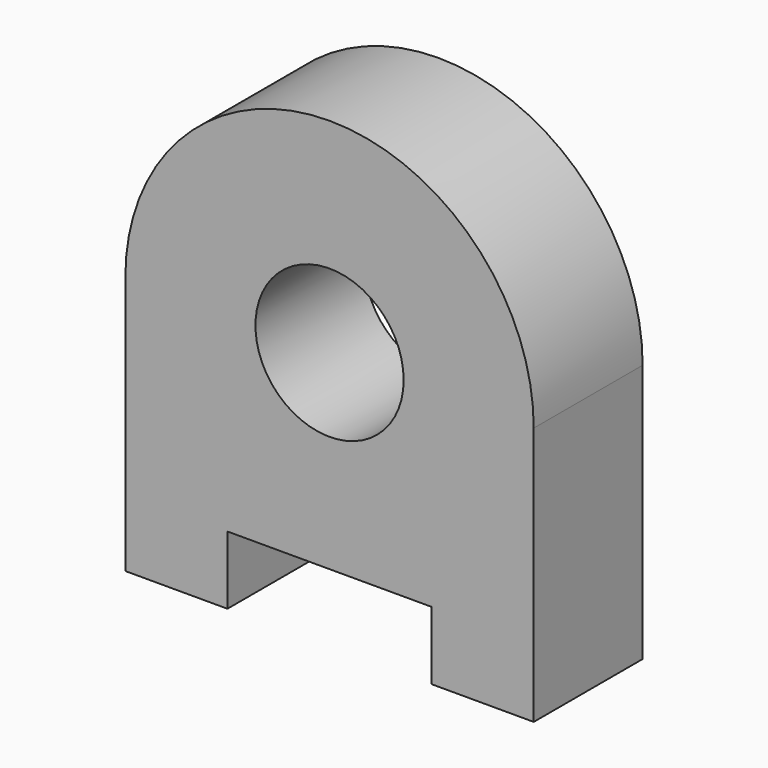
from build123d import *

# Parameters (mm, degrees)
F0_R     = 10.887967
F1_DEPTH = 20
F2_W     = 30
F2_H     = 10
F3_DEPTH = 20.001


with BuildPart() as f1:
    # F0 (on Front) → F1 (new body)
    with BuildSketch(Plane.XZ):
        with BuildLine():
            ThreePointArc((0, 22.053424), (-30, 52.053424), (-60, 22.053424))
            Line((-60, 22.053424), (-60, -15.946576))
            Line((-60, -15.946576), (0, -15.946576))
            Line((0, -15.946576), (0, 22.053424))
        make_face()
        with Locations((-30, 22.053424)):
            Circle(F0_R, mode=Mode.SUBTRACT)
    extrude(amount=F1_DEPTH)

    # F2 (on face) → F3 (cut, through all)
    with BuildSketch(Plane.XZ.offset(20)):
        with Locations((-30, -10.946576)):
            Rectangle(F2_W, F2_H)
    extrude(amount=-F3_DEPTH, mode=Mode.SUBTRACT)


solid = f1.part
